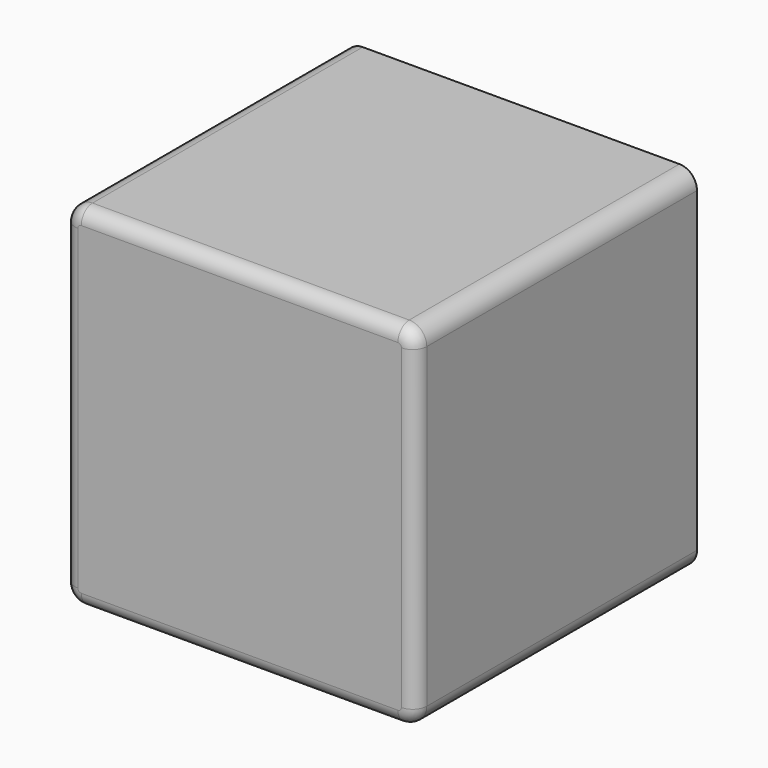
from build123d import *

# Parameters (mm, degrees)
F1_DEPTH = 127
F2_R     = 5.08


with BuildPart() as f1:
    # F0 (on Front) → F1 (new body)
    with BuildSketch(Plane.XZ):
        with BuildLine():
            ThreePointArc((63.5, 57.15), (61.640128, 61.640128), (57.15, 63.5))
            Line((57.15, 63.5), (-57.15, 63.5))
            ThreePointArc((-57.15, 63.5), (-61.640128, 61.640128), (-63.5, 57.15))
            Line((-63.5, 57.15), (-63.5, -57.15))
            ThreePointArc((-63.5, -57.15), (-61.640128, -61.640128), (-57.15, -63.5))
            Line((-57.15, -63.5), (57.15, -63.5))
            ThreePointArc((57.15, -63.5), (61.640128, -61.640128), (63.5, -57.15))
            Line((63.5, -57.15), (63.5, 57.15))
        make_face()
    extrude(amount=F1_DEPTH)

    # F2
    f2_edges = [f1.edges().sort_by_distance(p)[0] for p in [
        (0, -127, -63.5),
    ]]
    fillet(f2_edges, radius=F2_R)


solid = f1.part
